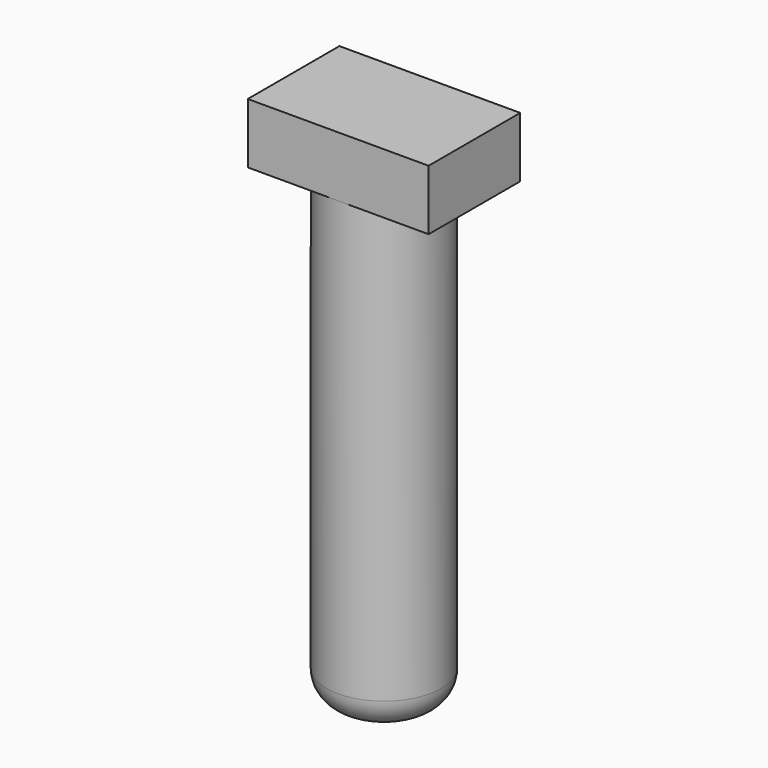
from build123d import *

# Parameters (mm, degrees)
SKETCH030_W  = 6
SKETCH030_H  = 3.8
PAD013_DEPTH = 2
SKETCH034_R  = 1.9
PAD017_DEPTH = 15.4
FILLET013_R  = 1


with BuildPart() as part:
    # Sketch030 → Pad013 (new body)
    with BuildSketch(Plane.XY.offset(13.4)):
        with Locations((17.4, -30.5)):
            Rectangle(SKETCH030_W, SKETCH030_H)
    extrude(amount=PAD013_DEPTH)

    # Sketch034 (on Face5 of Pad013) → Pad017 (join)
    with BuildSketch(Plane(origin=(0, 0, 13.4), x_dir=(1, 0, 0), z_dir=(0, 0, -1))):
        with Locations((17.4, 30.5)):
            Circle(SKETCH034_R)
    extrude(amount=PAD017_DEPTH)

    # Fillet013
    fillet013_edges = [part.edges().sort_by_distance(p)[0] for p in [
        (15.5, -30.5, -2),
    ]]
    fillet(fillet013_edges, radius=FILLET013_R)


solid = part.part
